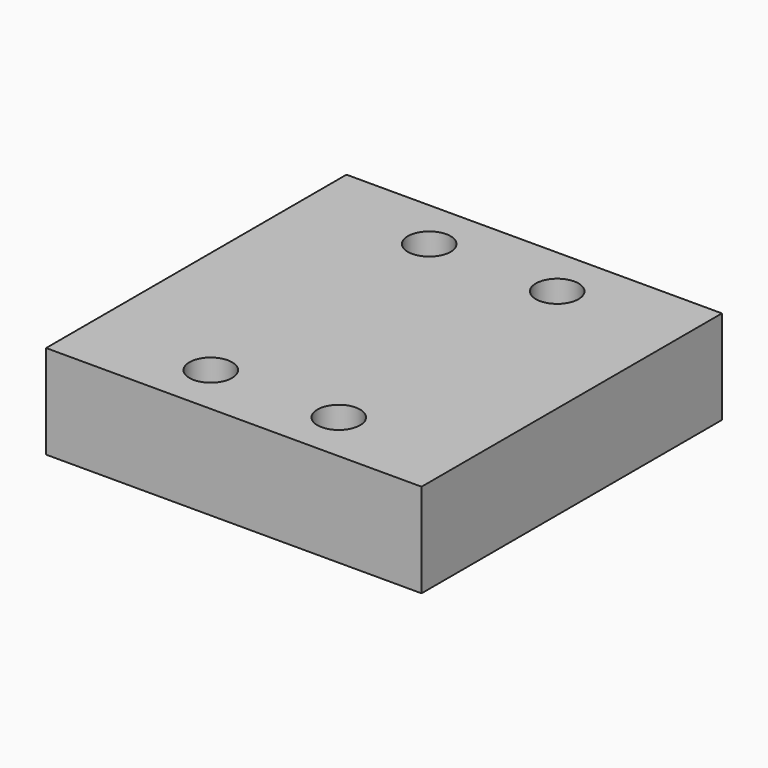
from build123d import *

# Parameters (mm, degrees)
CYLINDER006_R     = 2.5
CYLINDER006_DEPTH = 10
CYLINDER007_R     = 2.5
CYLINDER007_DEPTH = 10
CYLINDER005_R     = 2.5
CYLINDER005_DEPTH = 10
CYLINDER004_R     = 2.5
CYLINDER004_DEPTH = 10
BOX001_W          = 44
BOX001_H          = 44
BOX001_DEPTH      = 6
CYLINDER002_R     = 2.5
CYLINDER002_DEPTH = 10
CYLINDER003_R     = 2.5
CYLINDER003_DEPTH = 10
CYLINDER001_R     = 2.5
CYLINDER001_DEPTH = 10
CYLINDER_R        = 2.5
CYLINDER_DEPTH    = 10
BOX_W             = 44
BOX_H             = 44
BOX_DEPTH         = 6


with BuildPart() as cylinder006:
    # Cylinder006 → Cylinder006 (new body)
    with BuildSketch(Plane(origin=(14.5, 38, 0), x_dir=(1, 0, 0), z_dir=(0, 0, 1))):
        Circle(CYLINDER006_R)
    extrude(amount=CYLINDER006_DEPTH)


with BuildPart() as cylinder007:
    # Cylinder007 → Cylinder007 (new body)
    with BuildSketch(Plane(origin=(29.5, 38, 0), x_dir=(1, 0, 0), z_dir=(0, 0, 1))):
        Circle(CYLINDER007_R)
    extrude(amount=CYLINDER007_DEPTH)


with BuildPart() as cylinder005:
    # Cylinder005 → Cylinder005 (new body)
    with BuildSketch(Plane(origin=(29.5, 6, 0), x_dir=(1, 0, 0), z_dir=(0, 0, 1))):
        Circle(CYLINDER005_R)
    extrude(amount=CYLINDER005_DEPTH)


with BuildPart() as cylinder004:
    # Cylinder004 → Cylinder004 (new body)
    with BuildSketch(Plane(origin=(14.5, 6, 0), x_dir=(1, 0, 0), z_dir=(0, 0, 1))):
        Circle(CYLINDER004_R)
    extrude(amount=CYLINDER004_DEPTH)


with BuildPart() as cut007:
    # Box001 → Box001 (new body)
    with BuildSketch(Plane.XY):
        with Locations((22, 22)):
            Rectangle(BOX001_W, BOX001_H)
    extrude(amount=BOX001_DEPTH)

    # Cut004: cut Cylinder004
    add(cylinder004.part, mode=Mode.SUBTRACT)

    # Cut005: cut Cylinder005
    add(cylinder005.part, mode=Mode.SUBTRACT)

    # Cut006: cut Cylinder007
    add(cylinder007.part, mode=Mode.SUBTRACT)

    # Cut007: cut Cylinder006
    add(cylinder006.part, mode=Mode.SUBTRACT)


with BuildPart() as cut007_1:
    # Cut007 placement: moved
    add(cut007.part.moved(Location((0, 0, 5))))


with BuildPart() as cylinder002:
    # Cylinder002 → Cylinder002 (new body)
    with BuildSketch(Plane(origin=(14.5, 38, 0), x_dir=(1, 0, 0), z_dir=(0, 0, 1))):
        Circle(CYLINDER002_R)
    extrude(amount=CYLINDER002_DEPTH)


with BuildPart() as cylinder003:
    # Cylinder003 → Cylinder003 (new body)
    with BuildSketch(Plane(origin=(29.5, 38, 0), x_dir=(1, 0, 0), z_dir=(0, 0, 1))):
        Circle(CYLINDER003_R)
    extrude(amount=CYLINDER003_DEPTH)


with BuildPart() as cylinder001:
    # Cylinder001 → Cylinder001 (new body)
    with BuildSketch(Plane(origin=(29.5, 6, 0), x_dir=(1, 0, 0), z_dir=(0, 0, 1))):
        Circle(CYLINDER001_R)
    extrude(amount=CYLINDER001_DEPTH)


with BuildPart() as cylinder:
    # Cylinder → Cylinder (new body)
    with BuildSketch(Plane(origin=(14.5, 6, 0), x_dir=(1, 0, 0), z_dir=(0, 0, 1))):
        Circle(CYLINDER_R)
    extrude(amount=CYLINDER_DEPTH)


with BuildPart() as fusion:
    # Box → Box (new body)
    with BuildSketch(Plane.XY):
        with Locations((22, 22)):
            Rectangle(BOX_W, BOX_H)
    extrude(amount=BOX_DEPTH)

    # Cut: cut Cylinder
    add(cylinder.part, mode=Mode.SUBTRACT)

    # Cut001: cut Cylinder001
    add(cylinder001.part, mode=Mode.SUBTRACT)

    # Cut002: cut Cylinder003
    add(cylinder003.part, mode=Mode.SUBTRACT)

    # Cut003: cut Cylinder002
    add(cylinder002.part, mode=Mode.SUBTRACT)

    # Fusion: union Cut007
    add(cut007_1.part)


solid = fusion.part
